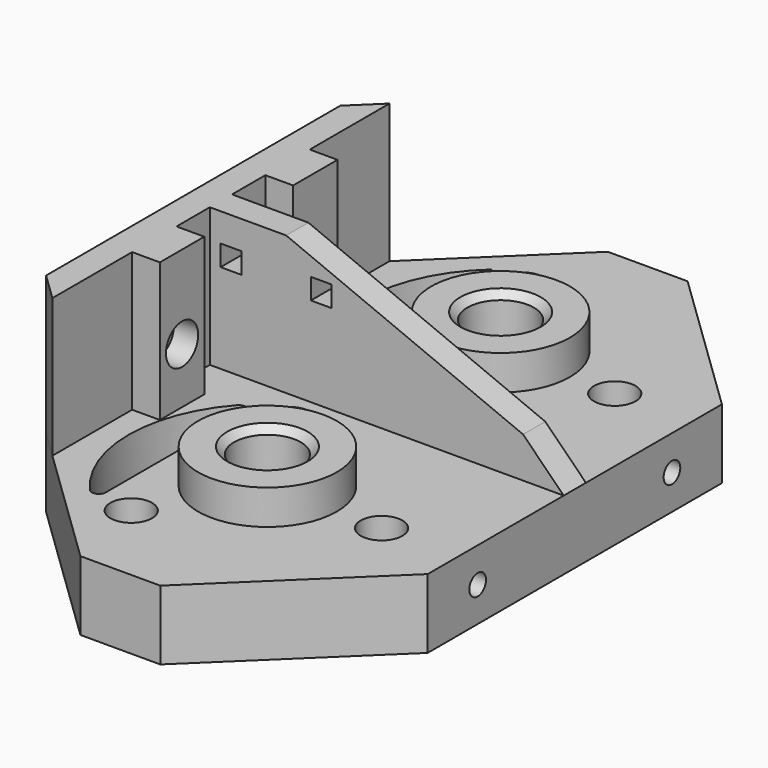
from build123d import *

# Parameters (mm, degrees)
BOX_W           = 55
BOX_H           = 95
BOX_DEPTH       = 10
SKETCH_R        = 2
POCKET_DEPTH    = 10
SKETCH001_R     = 2
POCKET001_DEPTH = 10
FILLET_R        = 1
PAD_DEPTH       = 20
CHAMFER_SIZE    = 20
CHAMFER001_SIZE = 20
SKETCH003_R     = 3
POCKET005_DEPTH = 6
SKETCH004_R     = 10
SKETCH004_R_2   = 2
PAD001_DEPTH    = 5
SKETCH005_W     = 3
SKETCH005_H     = 3
POCKET006_DEPTH = 5
SKETCH006_R     = 2.9
POCKET007_DEPTH = 3.5
SKETCH007_R     = 1.7
POCKET008_DEPTH = 5
SKETCH009_R     = 4.8
POCKET009_DEPTH = 9.5
CHAMFER002_SIZE = 1
CHAMFER003_SIZE = 1.5
SKETCH010_R     = 1.5
POCKET010_DEPTH = 8
SKETCH011_R     = 3
POCKET011_DEPTH = 1


with BuildPart() as part:
    # Box → Box (new body)
    with BuildSketch(Plane(origin=(-197, 315.2, 114.5), x_dir=(1, 0, 0), z_dir=(0, 0, 1))):
        with Locations((27.5, 47.5)):
            Rectangle(BOX_W, BOX_H)
    extrude(amount=BOX_DEPTH)

    # Sketch → Pocket (cut)
    with BuildSketch(Plane(origin=(-197, 315.2, 124.5), x_dir=(1, 0, 0), z_dir=(0, 0, 1))):
        with Locations((27.5, 26.5)):
            Circle(SKETCH_R)
        with Locations((27.5, 68.5)):
            Circle(SKETCH_R)
        Polygon((0, 74), (21.746137, 95), (0, 95), align=None)
        Polygon((33.253863, 95), (55, 95), (55, 74), align=None)
        Polygon((55, 21), (33.253863, 0), (55, 0), align=None)
        Polygon((0, 21), (0, 0), (21.746137, 0), align=None)
    extrude(amount=-POCKET_DEPTH, mode=Mode.SUBTRACT)

    # Sketch001 → Pocket001 (cut)
    with BuildSketch(Plane(origin=(-197, 315.2, 124.5), x_dir=(1, 0, 0), z_dir=(0, 0, 1))):
        with Locations((19.272759, 12.25)):
            Circle(SKETCH001_R)
        with Locations((19.272759, 40.75)):
            Circle(SKETCH001_R)
        with Locations((43.954483, 26.5)):
            Circle(SKETCH001_R)
        with Locations((19.272759, 54.25)):
            Circle(SKETCH001_R)
        with Locations((19.272759, 82.75)):
            Circle(SKETCH001_R)
        with Locations((43.954483, 68.5)):
            Circle(SKETCH001_R)
        with BuildLine():
            ThreePointArc((14.272759, 41.501336), (7.5, 26.5), (14.272759, 11.498664))
            Line((14.272759, 11.498664), (14.272759, 41.501336))
        make_face()
        with BuildLine():
            ThreePointArc((14.272759, 83.501336), (7.5, 68.5), (14.272759, 53.498664))
            Line((14.272759, 53.498664), (14.272759, 83.501336))
        make_face()
    extrude(amount=-POCKET001_DEPTH, mode=Mode.SUBTRACT)

    # Fillet
    fillet_edges = [part.edges().sort_by_distance(p)[0] for p in [
        (-182.727241, 326.698664, 119.5),
        (-175.727241, 355.95, 119.5),
        (-175.727241, 397.95, 119.5),
        (-182.727241, 356.701336, 119.5),
    ]]
    fillet(fillet_edges, radius=FILLET_R)

    # Sketch002 → Pad (new body)
    with BuildSketch(Plane(origin=(-197, 315.2, 124.5), x_dir=(1, 0, 0), z_dir=(0, 0, 1))):
        Polygon((4, 17.137245), (4, 31.5), (8, 31.5), (8, 39.5), (4, 39.5), (4, 45.5), (55, 45.5), (55, 49.5), (4, 49.5), (4, 55.5), (8, 55.5), (8, 63.5), (4, 63.5), (4, 77.862755), (0, 74), (0, 21), align=None)
    extrude(amount=PAD_DEPTH)

    # Chamfer
    chamfer_edges = [part.edges().sort_by_distance(p)[0] for p in [
        (-142, 362.7, 144.5),
    ]]
    chamfer(chamfer_edges, length=CHAMFER_SIZE)

    # Chamfer001
    chamfer001_edges = [part.edges().sort_by_distance(p)[0] for p in [
        (-162, 362.7, 144.5),
    ]]
    chamfer(chamfer001_edges, length=CHAMFER001_SIZE)

    # Sketch003 → Pocket005 (cut)
    with BuildSketch(Plane(origin=(-197, 315.2, 124.5), x_dir=(1, 0, 0), z_dir=(0, 0, 1))):
        with Locations((19.272759, 40.75)):
            Circle(SKETCH003_R)
        with Locations((19.272759, 12.25)):
            Circle(SKETCH003_R)
        with Locations((43.954483, 26.5)):
            Circle(SKETCH003_R)
        with Locations((19.272759, 54.25)):
            Circle(SKETCH003_R)
        with Locations((19.272759, 82.75)):
            Circle(SKETCH003_R)
        with Locations((43.954483, 68.5)):
            Circle(SKETCH003_R)
    extrude(amount=-POCKET005_DEPTH, mode=Mode.SUBTRACT)

    # Sketch004 → Pad001 (new body)
    with BuildSketch(Plane(origin=(-197, 315.2, 124.5), x_dir=(1, 0, 0), z_dir=(0, 0, 1))):
        with Locations((27.5, 68.5)):
            Circle(SKETCH004_R)
        with Locations((27.5, 68.5)):
            Circle(SKETCH004_R_2, mode=Mode.SUBTRACT)
        with Locations((27.5, 26.5)):
            Circle(SKETCH004_R)
        with Locations((27.5, 26.5)):
            Circle(SKETCH004_R_2, mode=Mode.SUBTRACT)
    extrude(amount=PAD001_DEPTH)

    # Sketch005 → Pocket006 (cut)
    with BuildSketch(Plane(origin=(-197, 360.7, 114.5), x_dir=(1, 0, 0), z_dir=(0, -1, 0))):
        with Locations((7.05428, 24.404704)):
            Rectangle(SKETCH005_W, SKETCH005_H)
        with Locations((20.05428, 24.404704)):
            Rectangle(SKETCH005_W, SKETCH005_H)
    extrude(amount=-POCKET006_DEPTH, mode=Mode.SUBTRACT)

    # Sketch006 → Pocket007 (cut)
    with BuildSketch(Plane(origin=(-189, 315.2, 114.5), x_dir=(0, 1, 0), z_dir=(1, 0, 0))):
        with Locations((35.5, 18)):
            Circle(SKETCH006_R)
        with Locations((59.5, 18)):
            Circle(SKETCH006_R)
    extrude(amount=-POCKET007_DEPTH, mode=Mode.SUBTRACT)

    # Sketch007 → Pocket008 (cut)
    with BuildSketch(Plane(origin=(-192.5, 315.2, 114.5), x_dir=(0, 1, 0), z_dir=(1, 0, 0))):
        with Locations((35.5, 18)):
            Circle(SKETCH007_R)
        with Locations((59.5, 18)):
            Circle(SKETCH007_R)
    extrude(amount=-POCKET008_DEPTH, mode=Mode.SUBTRACT)

    # Sketch009 → Pocket009 (cut)
    with BuildSketch(Plane(origin=(-197, 315.2, 129.5), x_dir=(1, 0, 0), z_dir=(0, 0, 1))):
        with Locations((27.5, 26.5)):
            Circle(SKETCH009_R)
        with Locations((27.5, 68.5)):
            Circle(SKETCH009_R)
    extrude(amount=-POCKET009_DEPTH, mode=Mode.SUBTRACT)

    # Chamfer002
    chamfer002_edges = [part.edges().sort_by_distance(p)[0] for p in [
        (-174.3, 383.7, 129.5),
        (-174.3, 341.7, 129.5),
    ]]
    chamfer(chamfer002_edges, length=CHAMFER002_SIZE)

    # Chamfer003
    chamfer003_edges = [part.edges().sort_by_distance(p)[0] for p in [
        (-171.5, 341.7, 120),
        (-171.5, 383.7, 120),
    ]]
    chamfer(chamfer003_edges, length=CHAMFER003_SIZE)

    # Sketch010 → Pocket010 (cut)
    with BuildSketch(Plane(origin=(-142, 315.2, 114.5), x_dir=(0, 1, 0), z_dir=(1, 0, 0))):
        with Locations((30, 5)):
            Circle(SKETCH010_R)
        with Locations((65, 5)):
            Circle(SKETCH010_R)
    extrude(amount=-POCKET010_DEPTH, mode=Mode.SUBTRACT)

    # Sketch011 → Pocket011 (cut)
    with BuildSketch(Plane(origin=(-197, 315.2, 118.5), x_dir=(1, 0, 0), z_dir=(0, 0, 1))):
        with Locations((19.272759, 82.75)):
            Circle(SKETCH011_R)
        with Locations((43.954483, 68.5)):
            Circle(SKETCH011_R)
        with Locations((19.272759, 54.25)):
            Circle(SKETCH011_R)
        with Locations((19.272759, 40.75)):
            Circle(SKETCH011_R)
        with Locations((43.954483, 26.5)):
            Circle(SKETCH011_R)
        with Locations((19.272759, 12.25)):
            Circle(SKETCH011_R)
    extrude(amount=-POCKET011_DEPTH, mode=Mode.SUBTRACT)


solid = part.part
